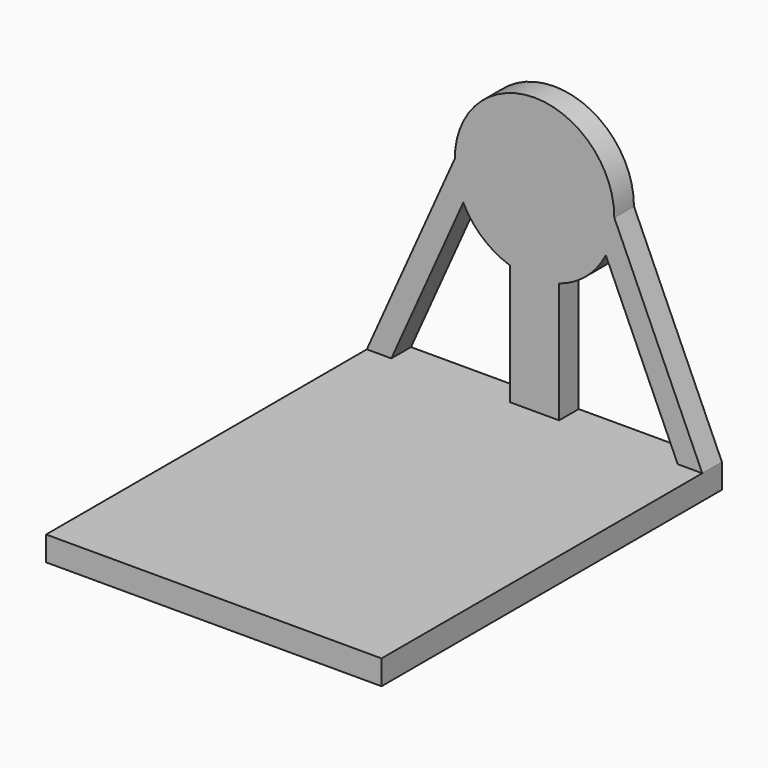
from build123d import *

# Parameters (mm, degrees)
F0_W     = 41
F0_H     = 52
F1_DEPTH = 3
F3_DEPTH = 3


with BuildPart() as f1:
    # F0 (on Top) → F1 (new body)
    with BuildSketch(Plane.XY):
        with Locations((27.000003, -7.557694)):
            Rectangle(F0_W, F0_H)
    extrude(amount=F1_DEPTH)

    # F2 (on face) → F3 (join)
    with BuildSketch(Plane(origin=(0, 18.442306, 0), x_dir=(-1, 0, 0), z_dir=(0, 1, 0))):
        with BuildLine():
            ThreePointArc((-18.288633, 22.621127), (-17.513213, 24.749818), (-17.250003, 27))
            ThreePointArc((-17.250003, 27), (-27.000003, 36.75), (-36.750003, 27))
            ThreePointArc((-36.750003, 27), (-36.486793, 24.749818), (-35.711373, 22.621127))
            ThreePointArc((-35.711373, 22.621127), (-33.347202, 19.598948), (-30.000003, 17.723012))
            ThreePointArc((-30.000003, 17.723012), (-28.518534, 17.368979), (-27.000003, 17.25))
            ThreePointArc((-27.000003, 17.25), (-25.481473, 17.368979), (-24.000003, 17.723012))
            ThreePointArc((-24.000003, 17.723012), (-20.652805, 19.598948), (-18.288633, 22.621127))
        make_face()
        with BuildLine():
            ThreePointArc((-35.711373, 22.621127), (-36.486793, 24.749818), (-36.750003, 27))
            Line((-36.750003, 27), (-47.500003, 3))
            Line((-47.500003, 3), (-44.500003, 3))
            Line((-44.500003, 3), (-35.711373, 22.621127))
        make_face()
        with BuildLine():
            Line((-24.000003, 3), (-24.000003, 17.723012))
            ThreePointArc((-24.000003, 17.723012), (-25.481473, 17.368979), (-27.000003, 17.25))
            Line((-27.000003, 17.25), (-27.000003, 3))
            Line((-27.000003, 3), (-24.000003, 3))
        make_face()
        with BuildLine():
            ThreePointArc((-27.000003, 17.25), (-28.518534, 17.368979), (-30.000003, 17.723012))
            Line((-30.000003, 17.723012), (-30.000003, 3))
            Line((-30.000003, 3), (-27.000003, 3))
            Line((-27.000003, 3), (-27.000003, 17.25))
        make_face()
        with BuildLine():
            Line((-9.500003, 3), (-6.500003, 3))
            Line((-6.500003, 3), (-17.250003, 27))
            ThreePointArc((-17.250003, 27), (-17.513213, 24.749818), (-18.288633, 22.621127))
            Line((-18.288633, 22.621127), (-9.500003, 3))
        make_face()
    extrude(amount=-F3_DEPTH)


solid = f1.part
